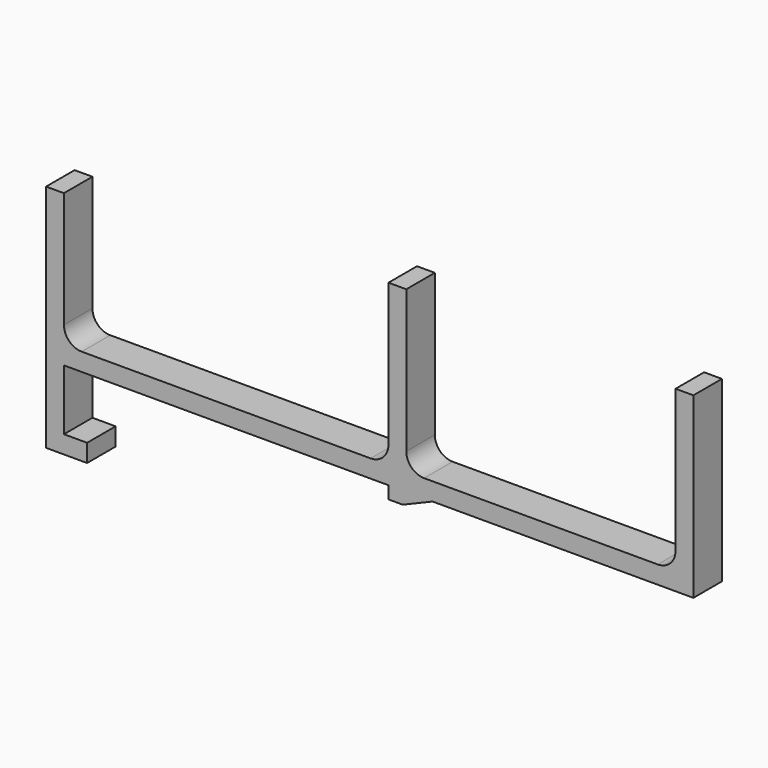
from build123d import *

# Parameters (mm, degrees)
F1_DEPTH = 5.08


with BuildPart() as f1:
    # F0 (on Front) → F1 (new body)
    with BuildSketch(Plane.XZ):
        with BuildLine():
            Line((-23.114, 4.064), (-23.114, 12.7))
            Line((-23.114, 12.7), (23.114, 12.7))
            Line((23.114, 12.7), (23.114, 10.922))
            Line((23.114, 10.922), (25.14514, 10.922))
            Line((25.14514, 10.922), (29.402316, 12.7))
            Line((29.402316, 12.7), (66.547998, 12.7))
            Line((66.547998, 12.7), (66.547998, 38.1))
            Line((66.547998, 38.1), (64.007998, 38.1))
            Line((64.007998, 38.1), (64.007998, 17.78))
            ThreePointArc((64.007998, 17.78), (63.264049, 15.983949), (61.467998, 15.24))
            Line((61.467998, 15.24), (28.194, 15.24))
            ThreePointArc((28.194, 15.24), (26.397949, 15.983949), (25.654, 17.78))
            Line((25.654, 17.78), (25.654, 38.1))
            Line((25.654, 38.1), (23.114, 38.1))
            Line((23.114, 38.1), (23.114, 17.78))
            ThreePointArc((23.114, 17.78), (22.370051, 15.983949), (20.574, 15.24))
            Line((20.574, 15.24), (-20.574, 15.24))
            ThreePointArc((-20.574, 15.24), (-22.370051, 15.983949), (-23.114, 17.78))
            Line((-23.114, 17.78), (-23.114, 34.29))
            Line((-23.114, 34.29), (-25.654, 34.29))
            Line((-25.654, 34.29), (-25.654, 15.24))
            Line((-25.654, 15.24), (-25.654, 1.524))
            Line((-25.654, 1.524), (-19.812, 1.524))
            Line((-19.812, 1.524), (-19.812, 4.064))
            Line((-19.812, 4.064), (-23.114, 4.064))
        make_face()
    extrude(amount=F1_DEPTH)


solid = f1.part
